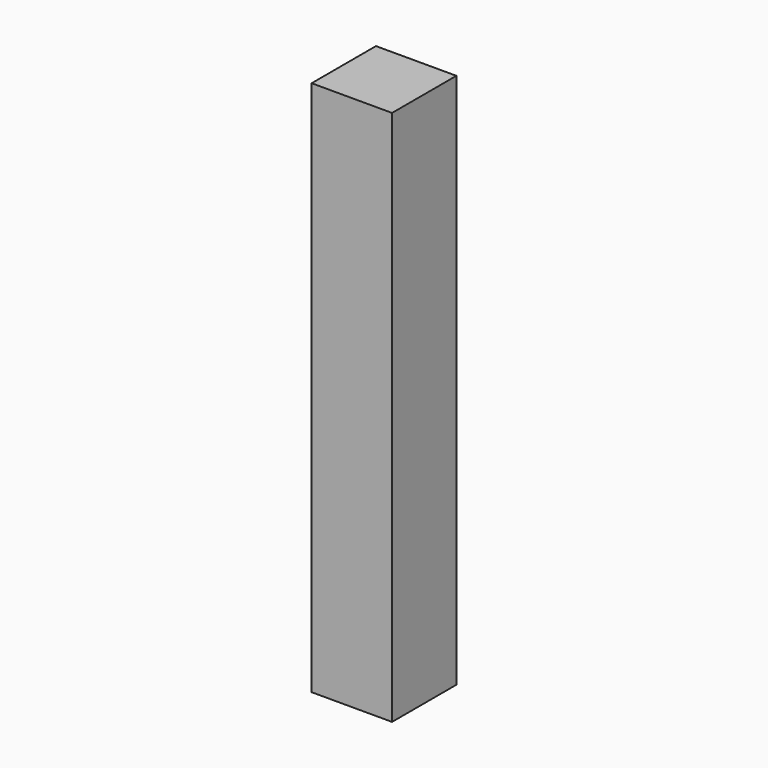
from build123d import *

# Parameters (mm, degrees)
SKETCH002_W = 1.5
SKETCH002_H = 1.5
PAD_DEPTH   = 10


with BuildPart() as part:
    # Sketch002 → Pad (new body)
    with BuildSketch(Plane.XY):
        Rectangle(SKETCH002_W, SKETCH002_H)
    extrude(amount=PAD_DEPTH)


solid = part.part
